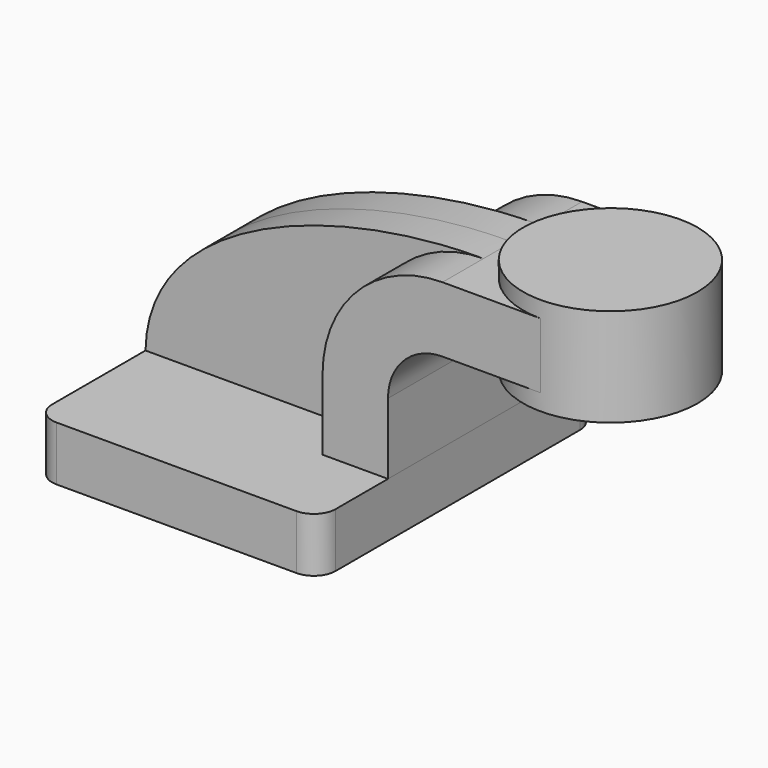
from build123d import *

# Parameters (mm, degrees)
F1_DEPTH      = 50.8
F1_DEPTH_BACK = 50.8
F0_W          = 25.4
F0_H          = 19.05
F2_DEPTH      = 25.4
F3_DEPTH      = 10.4775
F5_R          = 6.35


with BuildPart() as f1:
    # F0 (on Front) → F1 (new body, two sides)
    with BuildSketch(Plane.XZ) as f1_sk:
        Polygon((-41.275, 7.9375), (-41.275, -7.9375), (41.275, -7.9375), (41.275, 7.9375), (22.225, 7.9375), align=None)
    extrude(amount=F1_DEPTH)
    extrude(f1_sk.sketch, amount=-F1_DEPTH_BACK)

    # F5
    f5_edges = [f1.edges().sort_by_distance(p)[0] for p in [
        (41.275, -50.8, 0),
        (-41.275, -50.8, 0),
        (-41.275, 50.8, 0),
        (41.275, 50.8, 0),
    ]]
    fillet(f5_edges, radius=F5_R)


with BuildPart() as f2:
    # F0 (on Front) → F2 (new body, symmetric)
    with BuildSketch(Plane.XZ):
        with BuildLine():
            Line((22.225, 7.9375), (41.275, 7.9375))
            Line((41.275, 7.9375), (41.275, 28.5877))
            ThreePointArc((41.275, 28.5877), (45.92468, 39.81302), (57.15, 44.4627))
            Line((57.15, 44.4627), (60.325, 44.4627))
            Line((60.325, 44.4627), (60.325, 63.5127))
            Line((60.325, 63.5127), (57.15, 63.5127))
            ThreePointArc((57.15, 63.5127), (32.454296, 53.283404), (22.225, 28.5877))
            Line((22.225, 28.5877), (22.225, 7.9375))
        make_face()
        with Locations((73.025, 53.9877)):
            Rectangle(F0_W, F0_H)
    extrude(amount=F2_DEPTH, both=True)

    # F0 (on Front) → F4 (revolve)
    with BuildSketch(Plane.XZ):
        Polygon((85.725, 68.2625), (85.725, 63.5127), (85.725, 44.4627), (85.725, 39.6875), (111.125, 39.6875), (111.125, 68.2625), align=None)
    revolve(axis=Axis((85.725, 0, 53.975), (0, 0, -1)))


with BuildPart() as f3:
    # F0 (on Front) → F3 (new body, symmetric)
    with BuildSketch(Plane.XZ):
        with BuildLine():
            add(Edge.make_bspline(
                [(-41.275, 7.9375), (-40.702146, 44.634301), (13.28382, 63.67591), (57.15, 63.5127)],
                knots=[0, 0, 0, 0, 113.031338, 113.031338, 113.031338, 113.031338], degree=3))
            Line((-41.275, 7.9375), (22.225, 7.9375))
            Line((22.225, 7.9375), (22.225, 28.5877))
            ThreePointArc((22.225, 28.5877), (32.454296, 53.283404), (57.15, 63.5127))
        make_face()
    extrude(amount=F3_DEPTH, both=True)


solid = Compound([f1.part, f2.part, f3.part])
